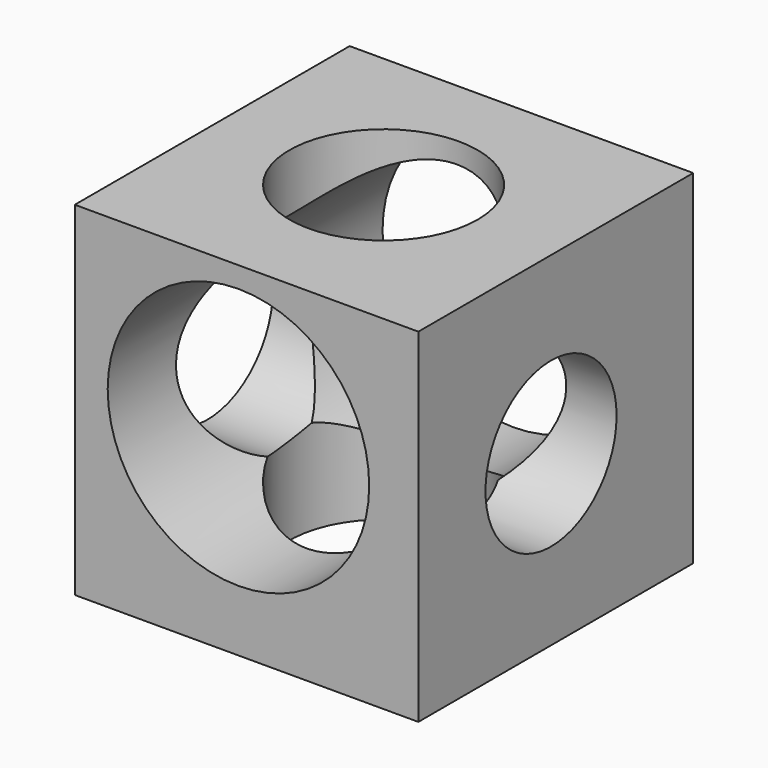
from build123d import *

# Parameters (mm, degrees)
F0_W       = 20
F0_H       = 20
F1_DEPTH   = 20
F2_R       = 5.4812551749
F1_FACE_W  = 20
F1_FACE_H  = 20
F3_DEPTH   = 20
F4_R       = 4.7702363178
F1_FACE2_W = 20
F1_FACE2_H = 20
F5_DEPTH   = 20
F6_R       = 7.6111370414
F7_DEPTH   = 20


with BuildPart() as f1:
    # F0 (on Top) → F1 (new body)
    with BuildSketch(Plane.XY):
        with Locations((10, 10)):
            Rectangle(F0_W, F0_H)
    extrude(amount=F1_DEPTH)

    # F2 (on Top) + F1_face (on face) → F3 (cut)
    with BuildSketch(Plane.XY):
        with Locations((9.7394008189, 10.2959359065)):
            Circle(F2_R)
    with BuildSketch(Plane(origin=(10, 10, 20), x_dir=(1, 0, 0), z_dir=(0, 0, 1))):
        Rectangle(F1_FACE_W, F1_FACE_H)
    extrude(amount=F3_DEPTH, mode=Mode.SUBTRACT)

    # F4 (on face) + F1_face2 (on face) → F5 (cut)
    with BuildSketch(Plane.YZ.offset(20)):
        with Locations((9.6540758386, 9.8292576149)):
            Circle(F4_R)
    with BuildSketch(Plane(origin=(0, 10, 10), x_dir=(0, -1, 0), z_dir=(-1, 0, 0))):
        Rectangle(F1_FACE2_W, F1_FACE2_H)
    extrude(amount=-F5_DEPTH, dir=(1, 0, 0), mode=Mode.SUBTRACT)

    # F6 (on face) → F7 (cut)
    with BuildSketch(Plane.XZ):
        with Locations((9.5273330808, 11.1748687923)):
            Circle(F6_R)
    extrude(amount=-F7_DEPTH, mode=Mode.SUBTRACT)


solid = f1.part
